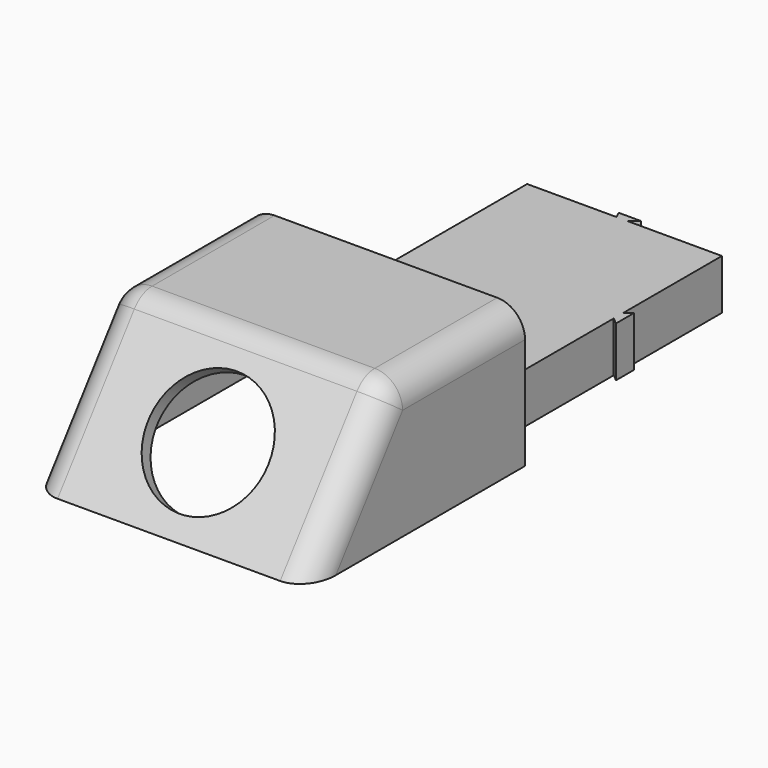
from build123d import *

# Parameters (mm, degrees)
F0_W      = 50
F0_H      = 30
F1_DEPTH  = 25
F3_DEPTH  = 50
F5_R      = 5
F6_T      = -2.5
F7_R      = 10.7930870798
F8_DEPTH  = 25
F10_DEPTH = 9
F11_W     = 42
F11_H     = 73.1670876886
F12_DEPTH = 22.5


with BuildPart() as f1:
    # F0 (on Top) → F1 (new body)
    with BuildSketch(Plane.XY):
        Rectangle(F0_W, F0_H)
    extrude(amount=F1_DEPTH)


with BuildPart() as f3:
    # F2 (on face) → F3 (new body, through all)
    with BuildSketch(Plane.YZ.offset(25)):
        Polygon((-15, 0), (-15, 25), (-33.741876483, 0), align=None)
    extrude(amount=-F3_DEPTH)


with BuildPart() as f1_1:
    add(f1.part)

    # F4: union F3
    add(f3.part)

    # F5
    f5_edges = [f1_1.edges().sort_by_distance(p)[0] for p in [
        (25, -24.370938, 12.5),
        (-25, -24.370938, 12.5),
        (0, -15, 25),
        (25, 0, 25),
        (-25, 0, 25),
    ]]
    fillet(f5_edges, radius=F5_R)

    # F6
    f6_openings = [f1_1.faces().sort_by_distance(p)[0] for p in [
        (0, -9.243814, 0),
    ]]
    offset(amount=F6_T, openings=f6_openings)

    # F7 (on face) → F8 (cut)
    with BuildSketch(Plane(origin=(0, -21.6015379391, 16.1941342359), x_dir=(1, 0, 0), z_dir=(0, -0.8001247794, 0.5998335914))):
        with Locations((0, -5.4950344037)):
            Circle(F7_R)
    extrude(amount=-F8_DEPTH, mode=Mode.SUBTRACT)


with BuildPart() as f10:
    # F9 (on Top) → F10 (new body)
    with BuildSketch(Plane.XY):
        Polygon((-17.5, 68.6), (-17.5, 22), (17.5, 22), (17.5, 44.3), (17.5, 46.4536678502), (17.5, 68.6), (0.5493581668, 68.6), (-1.4506418332, 68.6), align=None)
        Polygon((17.5, 46.4536678502), (17.5, 44.3), (18.7, 43.3), (18.7, 47.3), align=None)
        Polygon((-2, 69.8), (-1.4506418332, 68.6), (0.5493581668, 68.6), (2, 69.8), align=None)
    extrude(amount=F10_DEPTH)


with BuildPart() as f12:
    # F11 (on Top) → F12 (new body, through all)
    with BuildSketch(Plane.XY):
        with Locations((0, 36.5835438443)):
            Rectangle(F11_W, F11_H)
    extrude(amount=F12_DEPTH)


with BuildPart() as f1_2:
    add(f1_1.part)

    # F13: cut F12
    add(f12.part, mode=Mode.SUBTRACT)


with BuildPart() as f14_1:
    # F14: copy of F1
    add(f1_2.part)


solid = Compound([f10.part, f1_2.part, f14_1.part])
